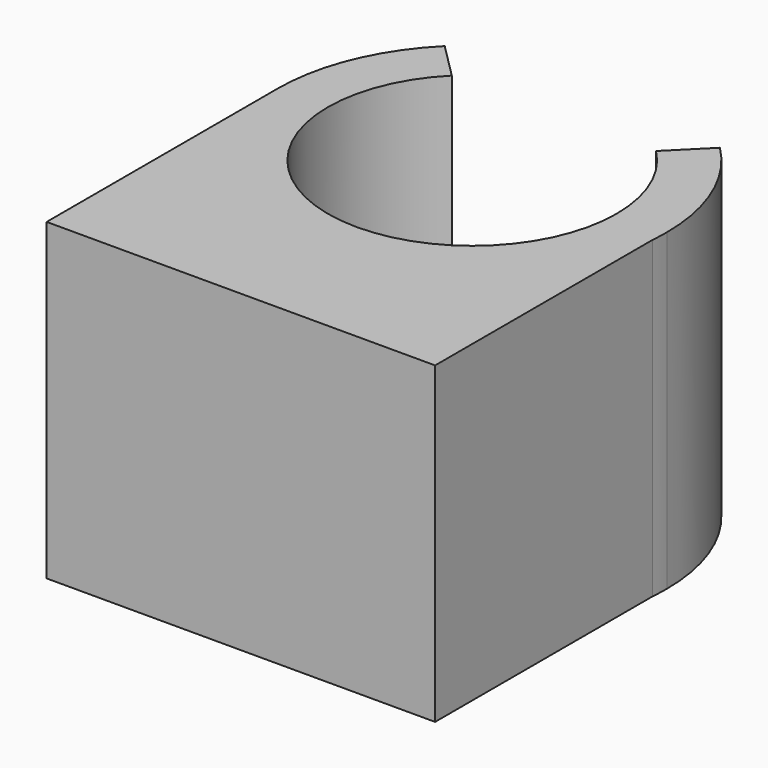
from build123d import *

# Parameters (mm, degrees)
F1_DEPTH = 10


with BuildPart() as f1:
    # F0 (on Top) → F1 (new body)
    with BuildSketch(Plane.XY):
        with BuildLine():
            ThreePointArc((6.1770823402, -0.5325915535), (-0.2665422021, -6.1942679353), (-6.2, 0))
            Line((-6.2, 0), (-6.2, -9.2))
            Line((-6.2, -9.2), (6.1770823402, -9.2))
            Line((6.1770823402, -9.2), (6.1770823402, -0.5325915535))
        make_face()
        with BuildLine():
            ThreePointArc((3.2526911935, 3.2526911935), (4.2498458496, 1.7603437889), (4.6, 0))
            ThreePointArc((4.6, 0), (-1.7603437889, -4.2498458496), (-3.2526911935, 3.2526911935))
            Line((-3.2526911935, 3.2526911935), (-4.3840620434, 4.3840620434))
            ThreePointArc((-4.3840620434, 4.3840620434), (-5.7280531016, 2.3726372807), (-6.2, 0))
            ThreePointArc((-6.2, 0), (-0.2665422021, -6.1942679353), (6.1770823402, -0.5325915535))
            ThreePointArc((6.1770823402, -0.5325915535), (6.1942679353, -0.2665422021), (6.2, 0))
            ThreePointArc((6.2, 0), (5.7280531016, 2.3726372807), (4.3840620434, 4.3840620434))
            Line((4.3840620434, 4.3840620434), (3.2526911935, 3.2526911935))
        make_face()
    extrude(amount=F1_DEPTH)


solid = f1.part
